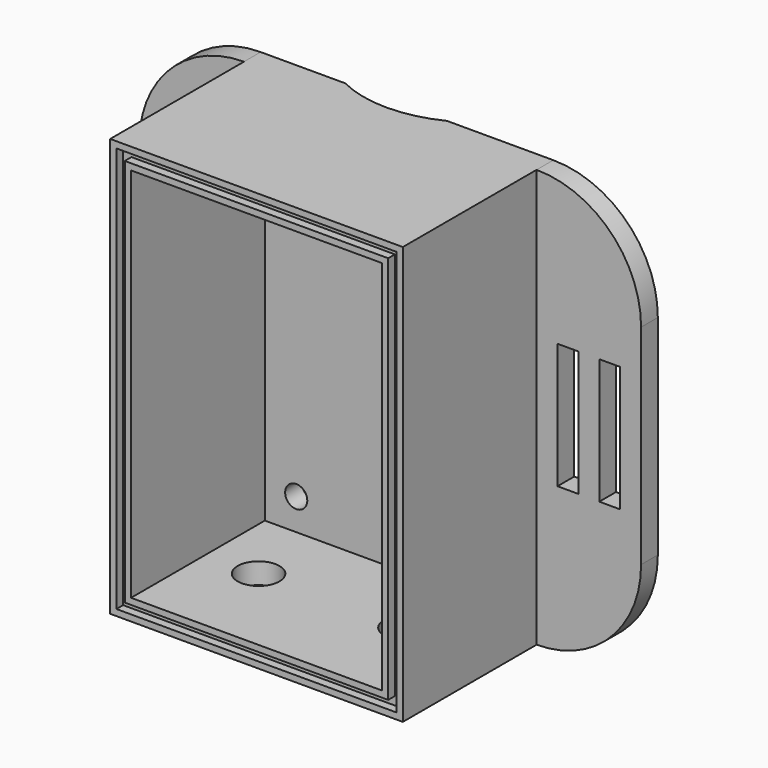
from build123d import *

# Parameters (mm, degrees)
F0_W      = 70
F0_H      = 100
F1_DEPTH  = 45
F2_W      = 60
F2_H      = 90
F3_DEPTH  = 40
F4_R      = 2.65
F5_DEPTH  = 5
F6_DEPTH  = 25
F7_DEPTH  = 25
F8_DEPTH  = 25
F9_W      = 5
F9_H      = 100
F10_DEPTH = 25
F11_W     = 5
F11_H     = 100
F12_DEPTH = 25
F14_DEPTH = 25
F15_DEPTH = 25
F17_DEPTH = 25
F18_W     = 67
F18_H     = 97
F18_W_2   = 63
F18_H_2   = 93
F19_DEPTH = 2
F13_W     = 5
F13_H     = 30
F20_DEPTH = 25
F16_W     = 5
F16_H     = 30
F21_DEPTH = 25
F22_R     = 5
F23_DEPTH = 25
F25_DEPTH = 100


with BuildPart() as f1:
    # F0 (on Front) → F1 (new body)
    with BuildSketch(Plane.XZ):
        with Locations((12.707982, -8.253274)):
            Rectangle(F0_W, F0_H)
    extrude(amount=F1_DEPTH)

    # F2 (on face) → F3 (cut)
    with BuildSketch(Plane.XZ.offset(45)):
        with Locations((12.707982, -8.253274)):
            Rectangle(F2_W, F2_H)
    extrude(amount=-F3_DEPTH, mode=Mode.SUBTRACT)

    # F4 (on face) → F5 (cut)
    with BuildSketch(Plane.XZ.offset(5)):
        with Locations((-9.792018, 29.246726)):
            Circle(F4_R)
    extrude(amount=-F5_DEPTH, mode=Mode.SUBTRACT)

    # F4 (on face) → F6 (cut)
    with BuildSketch(Plane.XZ.offset(5)):
        with Locations((35.207982, 29.246726)):
            Circle(F4_R)
    extrude(amount=-F6_DEPTH, mode=Mode.SUBTRACT)

    # F4 (on face) → F7 (cut)
    with BuildSketch(Plane.XZ.offset(5)):
        with Locations((35.207982, -45.753274)):
            Circle(F4_R)
    extrude(amount=-F7_DEPTH, mode=Mode.SUBTRACT)

    # F4 (on face) → F8 (cut)
    with BuildSketch(Plane.XZ.offset(5)):
        with Locations((-9.792018, -45.753274)):
            Circle(F4_R)
    extrude(amount=-F8_DEPTH, mode=Mode.SUBTRACT)

    # F9 (on face) → F10 (join)
    with BuildSketch(Plane(origin=(-22.292018, 0, 0), x_dir=(0, -1, 0), z_dir=(-1, 0, 0))):
        with Locations((2.5, -8.253274)):
            Rectangle(F9_W, F9_H)
    extrude(amount=F10_DEPTH)

    # F11 (on face) → F12 (join)
    with BuildSketch(Plane.YZ.offset(47.707982)):
        with Locations((-2.5, -8.253274)):
            Rectangle(F11_W, F11_H)
    extrude(amount=F12_DEPTH)

    # F13 (on face) → F14 (cut)
    with BuildSketch(Plane.XZ.offset(5)):
        with BuildLine():
            ThreePointArc((-47.292018, 16.746726), (-39.969687, 34.424395), (-22.292018, 41.746726))
            Line((-22.292018, 41.746726), (-47.292018, 41.746726))
            Line((-47.292018, 41.746726), (-47.292018, 16.746726))
        make_face()
    extrude(amount=-F14_DEPTH, mode=Mode.SUBTRACT)

    # F13 (on face) → F15 (cut)
    with BuildSketch(Plane.XZ.offset(5)):
        with BuildLine():
            Line((-47.292018, -58.253274), (-22.292018, -58.253274))
            ThreePointArc((-22.292018, -58.253274), (-39.969687, -50.930944), (-47.292018, -33.253274))
            Line((-47.292018, -33.253274), (-47.292018, -58.253274))
        make_face()
    extrude(amount=-F15_DEPTH, mode=Mode.SUBTRACT)

    # F16 (on face) → F17 (cut)
    with BuildSketch(Plane.XZ.offset(5)):
        with BuildLine():
            Line((72.707982, 41.746726), (47.707982, 41.746726))
            ThreePointArc((47.707982, 41.746726), (65.385652, 34.424395), (72.707982, 16.746726))
            Line((72.707982, 16.746726), (72.707982, 41.746726))
        make_face()
        with BuildLine():
            ThreePointArc((72.707982, -33.253274), (65.385652, -50.930944), (47.707982, -58.253274))
            Line((47.707982, -58.253274), (72.707982, -58.253274))
            Line((72.707982, -58.253274), (72.707982, -33.253274))
        make_face()
    extrude(amount=-F17_DEPTH, mode=Mode.SUBTRACT)

    # F18 (on face) → F19 (cut)
    with BuildSketch(Plane.XZ.offset(45)):
        with Locations((12.707982, -8.253274)):
            Rectangle(F18_W, F18_H)
        with Locations((12.707982, -8.253274)):
            Rectangle(F18_W_2, F18_H_2, mode=Mode.SUBTRACT)
    extrude(amount=-F19_DEPTH, mode=Mode.SUBTRACT)

    # F13 (on face) → F20 (cut)
    with BuildSketch(Plane.XZ.offset(5)):
        Polygon((-37.292018, 6.746726), (-42.292018, 6.746726), (-42.292018, -23.253274), (-37.288308, -23.253274), align=None)
        with Locations((-29.792018, -8.253274)):
            Rectangle(F13_W, F13_H)
    extrude(amount=-F20_DEPTH, mode=Mode.SUBTRACT)

    # F16 (on face) → F21 (cut)
    with BuildSketch(Plane.XZ.offset(5)):
        with Locations((55.207982, -8.253274)):
            Rectangle(F16_W, F16_H)
        with Locations((65.207982, -8.253274)):
            Rectangle(F16_W, F16_H)
    extrude(amount=-F21_DEPTH, mode=Mode.SUBTRACT)

    # F22 (on face) → F23 (cut)
    with BuildSketch(Plane(origin=(0, 0, -58.253274), x_dir=(1, 0, 0), z_dir=(0, 0, -1))):
        with Locations((30.207982, 22.5)):
            Circle(F22_R)
        with Locations((-4.792018, 22.5)):
            Circle(F22_R)
    extrude(amount=-F23_DEPTH, mode=Mode.SUBTRACT)

    # F24 (on face) → F25 (cut)
    with BuildSketch(Plane.XY.offset(41.746726)):
        with BuildLine():
            Line((22.267865, 0), (-2.053064, 0))
            ThreePointArc((-2.053064, 0), (10.1074, -2.837065), (22.267865, 0))
        make_face()
    extrude(amount=-F25_DEPTH, mode=Mode.SUBTRACT)


solid = f1.part
